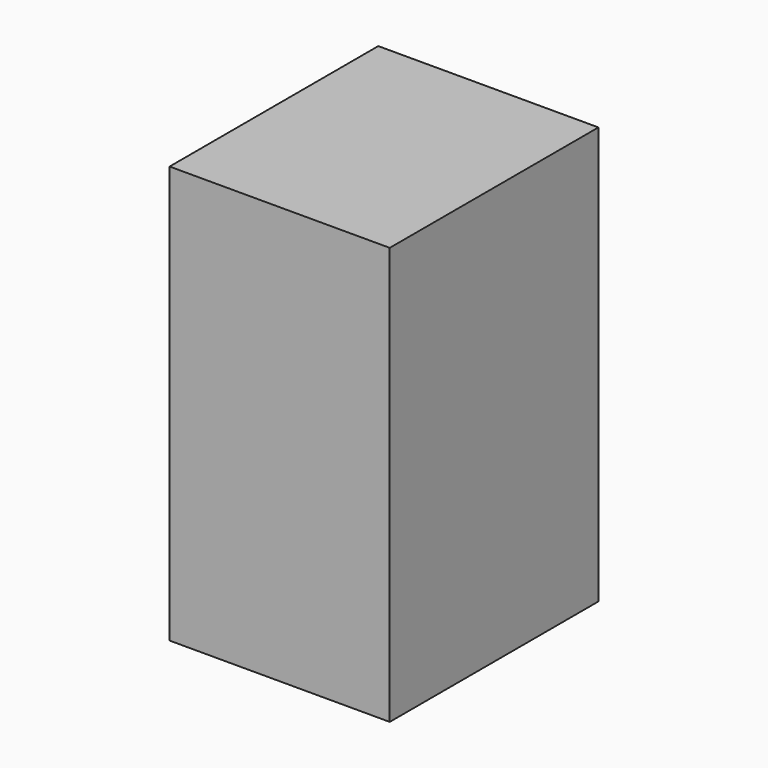
from build123d import *

# Parameters (mm, degrees)
F0_W     = 63.5
F0_H     = 101.6
F1_DEPTH = 50.8
F2_T     = -2.54
F3_W     = 63.5
F3_H     = 101.6
F4_DEPTH = 2.794
F7_DEPTH = 25.4
F8_DEPTH = 25.4


with BuildPart() as f1:
    # F0 (on Right) → F1 (new body)
    with BuildSketch(Plane.YZ):
        Rectangle(F0_W, F0_H)
    extrude(amount=F1_DEPTH)

    # F2
    f2_openings = [f1.faces().sort_by_distance(p)[0] for p in [
        (0, 0, 0),
    ]]
    offset(amount=F2_T, openings=f2_openings)

    # F3 (on Right) → F4 (join)
    with BuildSketch(Plane.YZ):
        Rectangle(F3_W, F3_H)
    extrude(amount=-F4_DEPTH)

    # F5 (on face) → F7 (cut)
    with BuildSketch(Plane(origin=(-2.794, 0, 0), x_dir=(0, -1, 0), z_dir=(-1, 0, 0))):
        with BuildLine():
            ThreePointArc((6.35, 38.1), (-4.4901280605, 42.5901280605), (0, 31.75))
            ThreePointArc((0, 31.75), (4.4901280605, 33.6098719395), (6.35, 38.1))
        make_face()
        with BuildLine():
            ThreePointArc((9.525, -38.1), (6.7351920908, -31.3648079092), (0, -28.575))
            ThreePointArc((0, -28.575), (-6.7351920908, -44.8351920908), (9.525, -38.1))
        make_face()
    extrude(amount=-F7_DEPTH, mode=Mode.SUBTRACT)

    # F6 (on face) → F8 (cut)
    with BuildSketch(Plane(origin=(-2.794, 0, 0), x_dir=(0, -1, 0), z_dir=(-1, 0, 0))):
        Polygon((0, 23.1647733599), (-3.5581812263, 23.1647733599), (-3.5581812263, -27.3652244359), (0, -27.3652244359), (0, 0), align=None)
        Polygon((3.5581812263, 23.1647733599), (0, 23.1647733599), (0, 0), (0, -27.3652244359), (3.5581812263, -27.3652244359), align=None)
    extrude(amount=-F8_DEPTH, mode=Mode.SUBTRACT)


solid = f1.part
